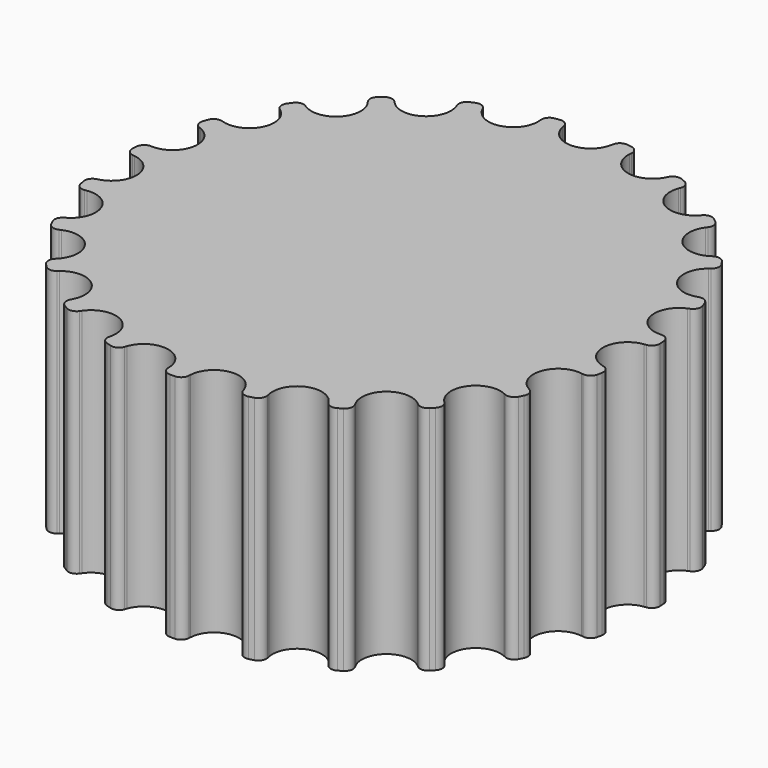
from build123d import *

# Parameters (mm, degrees)
F1_DEPTH = 25


with BuildPart() as f1:
    # F0 (on Top) → F1 (new body)
    with BuildSketch(Plane.XY):
        with BuildLine():
            ThreePointArc((-2.667402, 27.672334), (-3.014463, 28.210852), (-3.63556, 28.367987))
            ThreePointArc((-3.63556, 28.367987), (-3.894366, 28.333618), (-4.152848, 28.296888))
            ThreePointArc((-4.152848, 28.296888), (-4.708518, 27.97801), (-4.897419, 27.365826))
            Line((-4.897419, 27.365826), (-4.880278, 27.140608))
            ThreePointArc((-4.880278, 27.140608), (-6.825858, 24.361807), (-9.93202, 25.725176))
            Line((-9.93202, 25.725176), (-10.034394, 25.926513))
            ThreePointArc((-10.034394, 25.926513), (-10.513876, 26.351425), (-11.154335, 26.335163))
            ThreePointArc((-11.154335, 26.335163), (-11.394271, 26.232243), (-11.633258, 26.127138))
            ThreePointArc((-11.633258, 26.127138), (-12.08229, 25.670166), (-12.09902, 25.029719))
            Line((-12.09902, 25.029719), (-12.021753, 24.817477))
            ThreePointArc((-12.021753, 24.817477), (-13.145474, 21.616811), (-16.504283, 22.09159))
            Line((-16.504283, 22.09159), (-16.657181, 22.25784))
            ThreePointArc((-16.657181, 22.25784), (-17.233522, 22.537633), (-17.845844, 22.34918))
            ThreePointArc((-17.845844, 22.34918), (-18.049115, 22.185343), (-18.250882, 22.019657))
            ThreePointArc((-18.250882, 22.019657), (-18.559974, 21.458484), (-18.403293, 20.837272))
            Line((-18.403293, 20.837272), (-18.271629, 20.653748))
            ThreePointArc((-18.271629, 20.653748), (-18.49015, 17.268595), (-21.852499, 16.819572))
            Line((-21.852499, 16.819572), (-22.044581, 16.938405))
            ThreePointArc((-22.044581, 16.938405), (-22.675037, 17.052327), (-23.213808, 16.705661))
            ThreePointArc((-23.213808, 16.705661), (-23.365339, 16.493057), (-23.514922, 16.279079))
            ThreePointArc((-23.514922, 16.279079), (-23.661149, 15.655324), (-23.342678, 15.099421))
            Line((-23.342678, 15.099421), (-23.166382, 14.958225))
            ThreePointArc((-23.166382, 14.958225), (-22.463496, 11.639645), (-25.580016, 10.300123))
            Line((-25.580016, 10.300123), (-25.797035, 10.362726))
            ThreePointArc((-25.797035, 10.362726), (-26.434848, 10.302329), (-26.860111, 9.823159))
            ThreePointArc((-26.860111, 9.823159), (-26.948662, 9.577557), (-27.034968, 9.331157))
            ThreePointArc((-27.034968, 9.331157), (-27.007486, 8.691081), (-26.550843, 8.241714))
            Line((-26.550843, 8.241714), (-26.34299, 8.153318))
            ThreePointArc((-26.34299, 8.153318), (-24.770827, 5.147437), (-27.410379, 3.016761))
            Line((-27.410379, 3.016761), (-27.636241, 3.018492))
            ThreePointArc((-27.636241, 3.018492), (-28.234107, 2.788254), (-28.514322, 2.212118))
            ThreePointArc((-28.514322, 2.212118), (-28.533327, 1.951733), (-28.549954, 1.691185))
            ThreePointArc((-28.549954, 1.691185), (-28.3508, 1.082259), (-27.789854, 0.772757))
            Line((-27.789854, 0.772757), (-27.56586, 0.743717))
            ThreePointArc((-27.56586, 0.743717), (-25.24102, -1.726533), (-27.20784, -4.490341))
            Line((-27.20784, -4.490341), (-27.425794, -4.549611))
            ThreePointArc((-27.425794, -4.549611), (-27.939372, -4.932613), (-28.053756, -5.562985))
            ThreePointArc((-28.053756, -5.562985), (-28.001805, -5.818842), (-27.947521, -6.074214))
            ThreePointArc((-27.947521, -6.074214), (-27.591466, -6.606828), (-26.967818, -6.753512))
            Line((-26.967818, -6.753512), (-26.744295, -6.721042))
            ThreePointArc((-26.744295, -6.721042), (-23.839201, -8.472454), (-24.98742, -11.664414))
            Line((-24.98742, -11.664414), (-25.181301, -11.78029))
            ThreePointArc((-25.181301, -11.78029), (-25.572501, -12.28765), (-25.512571, -12.925507))
            ThreePointArc((-25.512571, -12.925507), (-25.393517, -13.15786), (-25.272348, -13.389117))
            ThreePointArc((-25.272348, -13.389117), (-24.785799, -13.805917), (-24.145702, -13.778903))
            Line((-24.145702, -13.778903), (-23.939229, -13.687332))
            ThreePointArc((-23.939229, -13.687332), (-20.669338, -14.590012), (-20.913797, -17.973391))
            Line((-20.913797, -17.973391), (-21.069226, -18.137278))
            ThreePointArc((-21.069226, -18.137278), (-21.309035, -18.731369), (-21.079235, -19.329403))
            ThreePointArc((-21.079235, -19.329403), (-20.901909, -19.52102), (-20.72284, -19.71101))
            ThreePointArc((-20.72284, -19.71101), (-20.141882, -19.981085), (-19.532811, -19.782377))
            Line((-19.532811, -19.782377), (-19.358699, -19.638495))
            ThreePointArc((-19.358699, -19.638495), (-15.966525, -19.625496), (-15.289094, -22.949364))
            Line((-15.289094, -22.949364), (-15.394543, -23.149108))
            ThreePointArc((-15.394543, -23.149108), (-15.465175, -23.785868), (-15.08255, -24.299726))
            ThreePointArc((-15.08255, -24.299726), (-14.860101, -24.436395), (-14.636414, -24.571027))
            ThreePointArc((-14.636414, -24.571027), (-14.004134, -24.674347), (-13.47126, -24.318682))
            Line((-13.47126, -24.318682), (-13.342424, -24.133161))
            ThreePointArc((-13.342424, -24.133161), (-10.079548, -23.205446), (-8.530469, -26.223288))
            Line((-8.530469, -26.223288), (-8.578117, -26.444074))
            ThreePointArc((-8.578117, -26.444074), (-8.474334, -27.076278), (-7.96726, -27.46785))
            ThreePointArc((-7.96726, -27.46785), (-7.716188, -27.539434), (-7.464472, -27.608724))
            ThreePointArc((-7.464472, -27.608724), (-6.827764, -27.537625), (-6.410607, -27.051382))
            Line((-6.410607, -27.051382), (-6.336602, -26.837981))
            ThreePointArc((-6.336602, -26.837981), (-3.445016, -25.064354), (-1.139177, -27.55235))
            Line((-1.139177, -27.55235), (-1.125491, -27.777804))
            ThreePointArc((-1.125491, -27.777804), (-0.854991, -28.358564), (-0.261075, -28.598808))
            ThreePointArc((-0.261075, -28.598808), (0, -28.6), (0.261075, -28.598808))
            ThreePointArc((0.261075, -28.598808), (0.854991, -28.358564), (1.125491, -27.777804))
            Line((1.125491, -27.777804), (1.139177, -27.55235))
            ThreePointArc((1.139177, -27.55235), (3.445016, -25.064354), (6.336602, -26.837981))
            Line((6.336602, -26.837981), (6.410607, -27.051382))
            ThreePointArc((6.410607, -27.051382), (6.827764, -27.537625), (7.464472, -27.608724))
            ThreePointArc((7.464472, -27.608724), (7.716188, -27.539434), (7.96726, -27.46785))
            ThreePointArc((7.96726, -27.46785), (8.474334, -27.076278), (8.578117, -26.444074))
            Line((8.578117, -26.444074), (8.530469, -26.223288))
            ThreePointArc((8.530469, -26.223288), (10.079548, -23.205446), (13.342424, -24.133161))
            Line((13.342424, -24.133161), (13.47126, -24.318682))
            ThreePointArc((13.47126, -24.318682), (14.004134, -24.674347), (14.636414, -24.571027))
            ThreePointArc((14.636414, -24.571027), (14.860101, -24.436395), (15.08255, -24.299726))
            ThreePointArc((15.08255, -24.299726), (15.465175, -23.785868), (15.394543, -23.149108))
            Line((15.394543, -23.149108), (15.289094, -22.949364))
            ThreePointArc((15.289094, -22.949364), (15.966525, -19.625496), (19.358699, -19.638495))
            Line((19.358699, -19.638495), (19.532811, -19.782377))
            ThreePointArc((19.532811, -19.782377), (20.141882, -19.981085), (20.72284, -19.71101))
            ThreePointArc((20.72284, -19.71101), (20.901909, -19.52102), (21.079235, -19.329403))
            ThreePointArc((21.079235, -19.329403), (21.309035, -18.731369), (21.069226, -18.137278))
            Line((21.069226, -18.137278), (20.913797, -17.973391))
            ThreePointArc((20.913797, -17.973391), (20.669338, -14.590012), (23.939229, -13.687332))
            Line((23.939229, -13.687332), (24.145702, -13.778903))
            ThreePointArc((24.145702, -13.778903), (24.785799, -13.805917), (25.272348, -13.389117))
            ThreePointArc((25.272348, -13.389117), (25.393517, -13.15786), (25.512571, -12.925507))
            ThreePointArc((25.512571, -12.925507), (25.572501, -12.28765), (25.181301, -11.78029))
            Line((25.181301, -11.78029), (24.98742, -11.664414))
            ThreePointArc((24.98742, -11.664414), (23.839201, -8.472454), (26.744295, -6.721042))
            Line((26.744295, -6.721042), (26.967818, -6.753512))
            ThreePointArc((26.967818, -6.753512), (27.591466, -6.606828), (27.947521, -6.074214))
            ThreePointArc((27.947521, -6.074214), (28.001805, -5.818842), (28.053756, -5.562985))
            ThreePointArc((28.053756, -5.562985), (27.939372, -4.932613), (27.425794, -4.549611))
            Line((27.425794, -4.549611), (27.20784, -4.490341))
            ThreePointArc((27.20784, -4.490341), (25.24102, -1.726533), (27.56586, 0.743717))
            Line((27.56586, 0.743717), (27.789854, 0.772757))
            ThreePointArc((27.789854, 0.772757), (28.3508, 1.082259), (28.549954, 1.691185))
            ThreePointArc((28.549954, 1.691185), (28.533327, 1.951733), (28.514322, 2.212118))
            ThreePointArc((28.514322, 2.212118), (28.234107, 2.788254), (27.636241, 3.018492))
            Line((27.636241, 3.018492), (27.410379, 3.016761))
            ThreePointArc((27.410379, 3.016761), (24.770827, 5.147437), (26.34299, 8.153318))
            Line((26.34299, 8.153318), (26.550843, 8.241714))
            ThreePointArc((26.550843, 8.241714), (27.007486, 8.691081), (27.034968, 9.331157))
            ThreePointArc((27.034968, 9.331157), (26.948662, 9.577557), (26.860111, 9.823159))
            ThreePointArc((26.860111, 9.823159), (26.434848, 10.302329), (25.797035, 10.362726))
            Line((25.797035, 10.362726), (25.580016, 10.300123))
            ThreePointArc((25.580016, 10.300123), (22.463496, 11.639645), (23.166382, 14.958225))
            Line((23.166382, 14.958225), (23.342678, 15.099421))
            ThreePointArc((23.342678, 15.099421), (23.661149, 15.655324), (23.514922, 16.279079))
            ThreePointArc((23.514922, 16.279079), (23.365339, 16.493057), (23.213808, 16.705661))
            ThreePointArc((23.213808, 16.705661), (22.675037, 17.052327), (22.044581, 16.938405))
            Line((22.044581, 16.938405), (21.852499, 16.819572))
            ThreePointArc((21.852499, 16.819572), (18.49015, 17.268595), (18.271629, 20.653748))
            Line((18.271629, 20.653748), (18.403293, 20.837272))
            ThreePointArc((18.403293, 20.837272), (18.559974, 21.458484), (18.250882, 22.019657))
            ThreePointArc((18.250882, 22.019657), (18.049115, 22.185343), (17.845844, 22.34918))
            ThreePointArc((17.845844, 22.34918), (17.233522, 22.537633), (16.657181, 22.25784))
            Line((16.657181, 22.25784), (16.504283, 22.09159))
            ThreePointArc((16.504283, 22.09159), (13.145474, 21.616811), (12.021753, 24.817477))
            Line((12.021753, 24.817477), (12.09902, 25.029719))
            ThreePointArc((12.09902, 25.029719), (12.08229, 25.670166), (11.633258, 26.127138))
            ThreePointArc((11.633258, 26.127138), (11.394271, 26.232243), (11.154335, 26.335163))
            ThreePointArc((11.154335, 26.335163), (10.513876, 26.351425), (10.034394, 25.926513))
            Line((10.034394, 25.926513), (9.93202, 25.725176))
            ThreePointArc((9.93202, 25.725176), (6.825858, 24.361807), (4.880278, 27.140608))
            Line((4.880278, 27.140608), (4.897419, 27.365826))
            ThreePointArc((4.897419, 27.365826), (4.708518, 27.97801), (4.152848, 28.296888))
            ThreePointArc((4.152848, 28.296888), (3.894366, 28.333618), (3.63556, 28.367987))
            ThreePointArc((3.63556, 28.367987), (3.014463, 28.210852), (2.667402, 27.672334))
            Line((2.667402, 27.672334), (2.623144, 27.450844))
            ThreePointArc((2.623144, 27.450844), (0, 25.3), (-2.623144, 27.450844))
            Line((-2.623144, 27.450844), (-2.667402, 27.672334))
        make_face()
    extrude(amount=F1_DEPTH)


solid = f1.part
